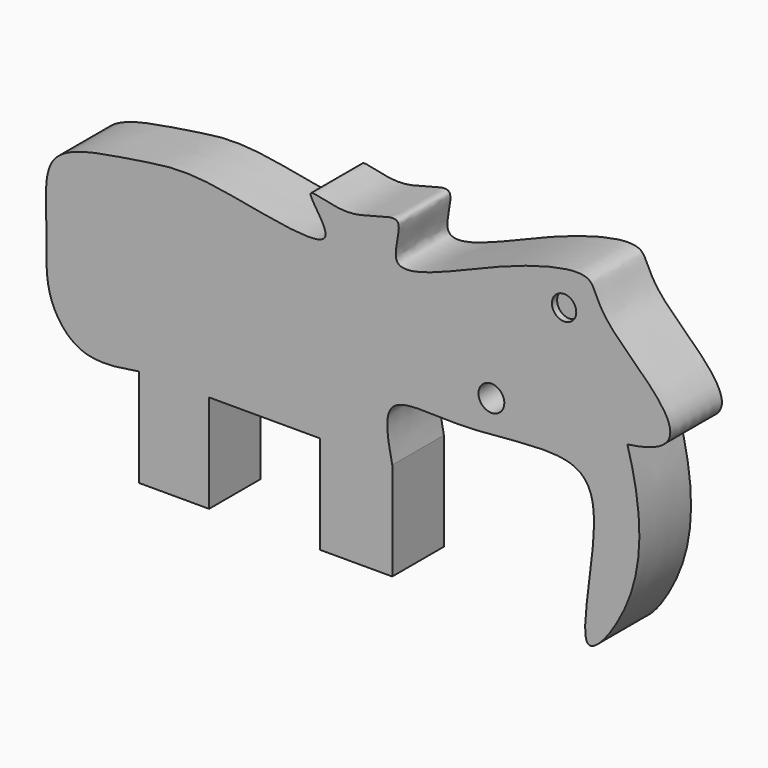
from build123d import *

# Parameters (mm, degrees)
F1_DEPTH = 25
F2_R     = 5
F3_DEPTH = 25
F4_R     = 4.7060144618
F5_DEPTH = 2.5


with BuildPart() as f1:
    # F0 (on Front) → F1 (new body)
    with BuildSketch(Plane.XZ):
        with BuildLine():
            Line((-93.5473529278, -31.1349012546), (-66.4350762963, -31.1349012546))
            Line((-66.4350762963, -31.1349012546), (-66.4350762963, 6.8650987454))
            Line((-66.4350762963, 6.8650987454), (-23.4839785844, 6.8650987454))
            Line((-23.4839785844, 6.8650987454), (-23.4839785844, -31.1349012546))
            Line((-23.4839785844, -31.1349012546), (4.4993120246, -31.1349012546))
            Line((4.4993120246, -31.1349012546), (4.4993120246, 6.8650987454))
            add(Edge.make_bspline(
                [(4.4993120246, 6.8650987454), (2.8374269836, 14.7016855693), (-0.853263147, 32.4409569292), (32.8556895583, 26.5796547808), (74.6223439516, 35.1305334646), (87.0756669584, 16.6179660718), (71.8848827444, -46.4686235023), (104.0279569167, -4.5437848956), (100.5332989701, 26.0863109785), (95.5420616639, 43.5441946911)],
                knots=[0, 0, 0, 0, 0.1126756035, 0.2450576643, 0.4084563281, 0.5183436129, 0.686275962, 0.8164320125, 1, 1, 1, 1], degree=3))
            add(Edge.make_bspline(
                [(-93.5473529278, 6.8650987454), (-101.4690569387, 5.5416294083), (-116.8262994128, 3.0753109769), (-130.5893771841, 21.2365260223), (-128.714852237, 43.3951030868), (-130.8040339637, 65.8251341347), (-119.4532378267, 75.1490306938), (-91.1533413551, 78.7929273031), (-70.1036146915, 83.102724482), (-8.4969648894, 66.653290338), (-34.0966697601, 94.5063841366), (-11.6511179657, 83.1173242445), (12.3209867208, 97.5381588934), (-1.5282783855, 66.0236808394), (46.339203984, 90.1622448682), (85.0639423188, 99.9452910303), (80.8475662951, 82.181295183), (130.5223684823, 48.1111268317), (95.5420616639, 43.5441946911)],
                knots=[0, 0, 0, 0, 0.0609855328, 0.117148344, 0.1789005154, 0.238232514, 0.2839820053, 0.350141279, 0.4188749647, 0.5048311531, 0.5528758222, 0.6026311094, 0.6595144711, 0.7069211722, 0.7893930554, 0.8664068009, 0.9209130445, 1, 1, 1, 1], degree=3))
            Line((-93.5473529278, 6.8650987454), (-93.5473529278, -31.1349012546))
        make_face()
    extrude(amount=F1_DEPTH)

    # F2 (on face) → F3 (cut)
    with BuildSketch(Plane.XZ.offset(25)):
        with Locations((42.8949892521, 42.1393550932)):
            Circle(F2_R)
    extrude(amount=-F3_DEPTH, mode=Mode.SUBTRACT)

    # F4 (on face) → F5 (cut, symmetric)
    with BuildSketch(Plane.XZ.offset(25)):
        with Locations((71.0475593805, 82.1447968483)):
            Circle(F4_R)
    extrude(amount=F5_DEPTH, both=True, mode=Mode.SUBTRACT)


solid = f1.part
